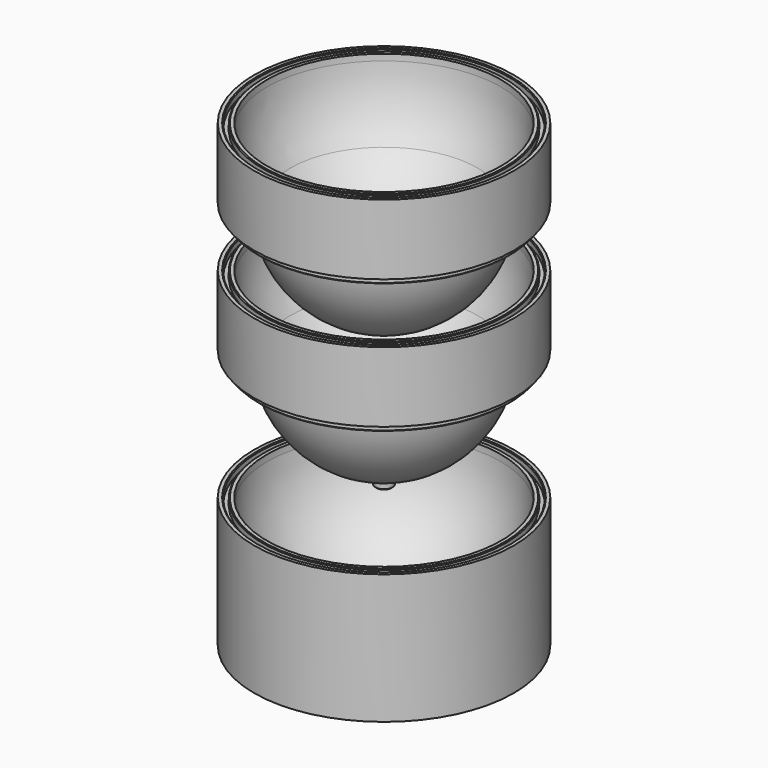
from build123d import *

# Parameters (mm, degrees)
F0_W    = 1
F0_H    = 1.4608843739
F6_SIZE = 0.2
F7_SIZE = 0.2
F8_SIZE = 0.2
F9_SIZE = 0.2


with BuildPart() as f1:
    # F0 (on Front) → F1 (revolve)
    with BuildSketch(Plane.XZ):
        with BuildLine():
            Line((-30.3, 0), (0, 0))
            Line((0, 0), (0, 2.5733586353))
            Line((0, 2.5733586353), (-2, 2.5733586353))
            Line((-2, 2.5733586353), (-2, 3.0733586353))
            ThreePointArc((-2, 3.0733586353), (-19.4940605548, 11.1879199696), (-27.2608843739, 28.8391156261))
            ThreePointArc((-27.2608843739, 28.8391156261), (-27.2902193414, 29.5692960268), (-27.3, 30.3))
            Line((-27.3, 30.3), (-28.3, 30.3))
            Line((-28.3, 30.3), (-28.3, 28.8391156261))
            Line((-28.3, 28.8391156261), (-29.3, 28.8391156261))
            Line((-29.3, 28.8391156261), (-29.3, 30.3))
            Line((-29.3, 30.3), (-30.3, 30.3))
            Line((-30.3, 30.3), (-30.3, 0))
        make_face()
    revolve(axis=Axis((0, 0, 15.15), (0, 0, 1)))


with BuildPart() as f2:
    # F0 (on Front) → F2 (revolve)
    with BuildSketch(Plane.XZ):
        with BuildLine():
            Line((-30.3, 46.6707055437), (-30.3, 30.3))
            Line((-30.3, 30.3), (-29.3, 30.3))
            Line((-29.3, 30.3), (-28.3, 30.3))
            Line((-28.3, 30.3), (-27.3, 30.3))
            Line((-27.3, 30.3), (-25.8, 30.3))
            Line((-25.8, 30.3), (-24.3, 30.3))
            Line((-24.3, 30.3), (-21.846967753, 30.3))
            ThreePointArc((-21.846967753, 30.3), (-25.6606893313, 37.3530329244), (-27.2608843739, 45.2098211699))
            ThreePointArc((-27.2608843739, 45.2098211699), (-27.2902193414, 45.9400015705), (-27.3, 46.6707055437))
            Line((-27.3, 46.6707055437), (-28.3, 46.6707055437))
            Line((-28.3, 46.6707055437), (-28.3, 45.2098211699))
            Line((-28.3, 45.2098211699), (-29.3, 45.2098211699))
            Line((-29.3, 45.2098211699), (-29.3, 46.6707055437))
            Line((-29.3, 46.6707055437), (-30.3, 46.6707055437))
        make_face()
        with BuildLine():
            ThreePointArc((-2, 6.0824443843), (-1.0008492739, 6.0206198446), (0, 6))
            Line((0, 6), (0, 18.9440641791))
            Line((0, 18.9440641791), (-2, 18.9440641791))
            Line((-2, 18.9440641791), (-2, 19.4440641791))
            ThreePointArc((-2, 19.4440641791), (-13.1008512468, 22.7195532414), (-21.846967753, 30.3))
            Line((-21.846967753, 30.3), (-24.3, 30.3))
            ThreePointArc((-24.3, 30.3), (-24.2890092685, 29.5692272893), (-24.2560470161, 28.8391156261))
            ThreePointArc((-24.2560470161, 28.8391156261), (-17.3727235265, 13.3094591825), (-2, 6.0824443843))
        make_face()
        with BuildLine():
            ThreePointArc((-2, 3.0733586353), (-1.0006724601, 3.0183458231), (0, 3))
            Line((0, 3), (0, 6))
            ThreePointArc((0, 6), (-1.0008492739, 6.0206198446), (-2, 6.0824443843))
            Line((-2, 6.0824443843), (-2, 3.0733586353))
        make_face()
        with BuildLine():
            Line((-2, 2.5733586353), (0, 2.5733586353))
            Line((0, 2.5733586353), (0, 3))
            ThreePointArc((0, 3), (-1.0006724601, 3.0183458231), (-2, 3.0733586353))
            Line((-2, 3.0733586353), (-2, 2.5733586353))
        make_face()
        with BuildLine():
            Line((-25.8, 28.8391156261), (-24.2560470161, 28.8391156261))
            ThreePointArc((-24.2560470161, 28.8391156261), (-24.2890092685, 29.5692272893), (-24.3, 30.3))
            Line((-24.3, 30.3), (-25.8, 30.3))
            Line((-25.8, 30.3), (-25.8, 28.8391156261))
        make_face()
        with Locations((-28.8, 29.5695578131)):
            Rectangle(F0_W, F0_H)
        with BuildLine():
            Line((-2, 18.9440641791), (0, 18.9440641791))
            Line((0, 18.9440641791), (0, 19.3707055437))
            ThreePointArc((0, 19.3707055437), (-1.0006724601, 19.3890513669), (-2, 19.4440641791))
            Line((-2, 19.4440641791), (-2, 18.9440641791))
        make_face()
    revolve(axis=Axis((0, 0, 15.15), (0, 0, 1)))

    # F6
    f6_edges = [f2.edges().sort_by_distance(p)[0] for p in [
        (29.3, 0, 28.839116),
        (28.3, 0, 28.839116),
        (29.3, 0, 46.670706),
        (28.3, 0, 46.670706),
    ]]
    chamfer(f6_edges, length=F6_SIZE)

    # F9
    f9_edges = [f2.edges().sort_by_distance(p)[0] for p in [
        (2, 0, 2.573359),
    ]]
    chamfer(f9_edges, length=F9_SIZE)


with BuildPart() as f3:
    # F0 (on Front) → F3 (revolve)
    with BuildSketch(Plane.XZ):
        with BuildLine():
            ThreePointArc((-2, 6.0824443843), (-1.0008492739, 6.0206198446), (0, 6))
            Line((0, 6), (0, 18.9440641791))
            Line((0, 18.9440641791), (-2, 18.9440641791))
            Line((-2, 18.9440641791), (-2, 19.4440641791))
            ThreePointArc((-2, 19.4440641791), (-13.1008512468, 22.7195532414), (-21.846967753, 30.3))
            Line((-21.846967753, 30.3), (-24.3, 30.3))
            ThreePointArc((-24.3, 30.3), (-24.2890092685, 29.5692272893), (-24.2560470161, 28.8391156261))
            ThreePointArc((-24.2560470161, 28.8391156261), (-17.3727235265, 13.3094591825), (-2, 6.0824443843))
        make_face()
        with BuildLine():
            Line((-30.3, 46.6707055437), (-30.3, 30.3))
            Line((-30.3, 30.3), (-29.3, 30.3))
            Line((-29.3, 30.3), (-28.3, 30.3))
            Line((-28.3, 30.3), (-27.3, 30.3))
            Line((-27.3, 30.3), (-25.8, 30.3))
            Line((-25.8, 30.3), (-24.3, 30.3))
            Line((-24.3, 30.3), (-21.846967753, 30.3))
            ThreePointArc((-21.846967753, 30.3), (-25.6606893313, 37.3530329244), (-27.2608843739, 45.2098211699))
            ThreePointArc((-27.2608843739, 45.2098211699), (-27.2902193414, 45.9400015705), (-27.3, 46.6707055437))
            Line((-27.3, 46.6707055437), (-28.3, 46.6707055437))
            Line((-28.3, 46.6707055437), (-28.3, 45.2098211699))
            Line((-28.3, 45.2098211699), (-29.3, 45.2098211699))
            Line((-29.3, 45.2098211699), (-29.3, 46.6707055437))
            Line((-29.3, 46.6707055437), (-30.3, 46.6707055437))
        make_face()
        with Locations((-28.8, 29.5695578131)):
            Rectangle(F0_W, F0_H)
        with BuildLine():
            ThreePointArc((-27.3, 30.3), (-27.2902193414, 29.5692960268), (-27.2608843739, 28.8391156261))
            Line((-27.2608843739, 28.8391156261), (-25.8, 28.8391156261))
            Line((-25.8, 28.8391156261), (-25.8, 30.3))
            Line((-25.8, 30.3), (-27.3, 30.3))
        make_face()
    revolve(axis=Axis((0, 0, 15.15), (0, 0, 1)))


with BuildPart() as f1_1:
    # F4: moved
    add(f1.part.moved(Location((0, 0, -30.3))))

    # F8
    f8_edges = [f1_1.edges().sort_by_distance(p)[0] for p in [
        (28.3, 0, 0),
        (29.3, 0, 0),
    ]]
    chamfer(f8_edges, length=F8_SIZE)


with BuildPart() as f3_1:
    # F5: moved
    add(f3.part.moved(Location((0, 0, 30.3))))

    # F7
    f7_edges = [f3_1.edges().sort_by_distance(p)[0] for p in [
        (29.3, 0, 76.970706),
        (28.3, 0, 76.970706),
        (29.3, 0, 59.139116),
        (28.3, 0, 59.139116),
    ]]
    chamfer(f7_edges, length=F7_SIZE)


solid = Compound([f2.part, f1_1.part, f3_1.part])
